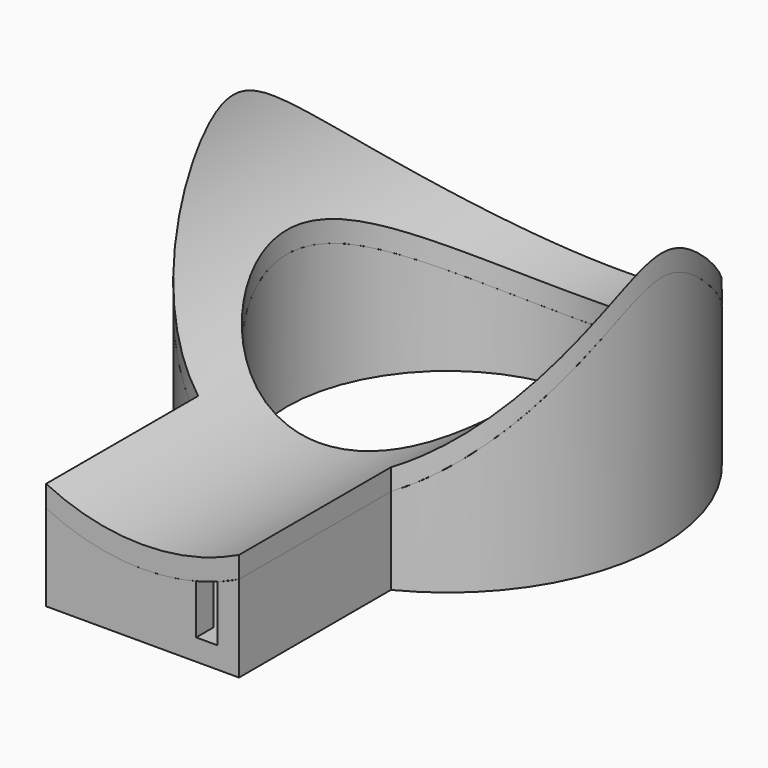
from build123d import *

# Parameters (mm, degrees)
SKETCH_R             = 20
PAD_DEPTH            = 30
SKETCH001_R          = 19
POCKET_DEPTH         = 40
POCKET001_DEPTH      = 20.001
POCKET001_DEPTH_BACK = -20.001
SKETCH014_W          = 14
SKETCH014_H          = 7.569522
POCKET010_DEPTH      = 6
SKETCH005_R          = 16
PAD002_DEPTH         = 30
POCKET003_DEPTH      = 16.001
POCKET003_DEPTH_BACK = -16.001
SKETCH007_R          = 15
POCKET004_DEPTH      = 13.684994
SKETCH003_R          = 19
PAD001_DEPTH         = 30
POCKET002_DEPTH      = 19.001
POCKET002_DEPTH_BACK = -19.001
SKETCH008_R          = 16
POCKET005_DEPTH      = 13.803598
SKETCH009_W          = 18
SKETCH009_H          = 20
PAD003_DEPTH         = 9
SKETCH010_W          = 14
SKETCH010_H          = 17
POCKET006_DEPTH      = 7
POCKET007_DEPTH      = 21
SKETCH012_W          = 14
SKETCH012_H          = 7.424547
POCKET008_DEPTH      = 25
SKETCH013_R          = 19
POCKET009_DEPTH      = 7
SKETCH021_W          = 2
SKETCH021_H          = 8
POCKET015_DEPTH      = 5
PAD004_DEPTH         = 36
POCKET011_DEPTH      = 36
SKETCH017_R          = 15
POCKET012_DEPTH      = 24.001
POCKET013_DEPTH      = 25
SKETCH019_W          = 20
SKETCH019_H          = 5
POCKET014_DEPTH      = 15
PAD005_DEPTH         = 1


with BuildPart() as base_cylinder_external:
    # Sketch → Pad (new body)
    with BuildSketch(Plane.XY):
        Circle(SKETCH_R)
    extrude(amount=PAD_DEPTH)

    # Sketch001 → Pocket (cut)
    with BuildSketch(Plane.XY):
        Circle(SKETCH001_R)
    extrude(amount=POCKET_DEPTH, mode=Mode.SUBTRACT)

    # Sketch002 → Pocket001 (cut, two sides)
    with BuildSketch(Plane.XZ) as pocket001_sk:
        with BuildLine():
            Line((-20, 22), (-20, 32))
            Line((-20, 32), (20, 32))
            Line((20, 32), (20, 22))
            ThreePointArc((-20, 22), (0, 6), (20, 22))
        make_face()
    extrude(amount=-POCKET001_DEPTH, mode=Mode.SUBTRACT)
    extrude(pocket001_sk.sketch, amount=-POCKET001_DEPTH_BACK, mode=Mode.SUBTRACT)

    # Sketch014 → Pocket010 (cut)
    with BuildSketch(Plane.XZ.offset(22)):
        with Locations((0, 5.784761)):
            Rectangle(SKETCH014_W, SKETCH014_H)
    extrude(amount=-POCKET010_DEPTH, mode=Mode.SUBTRACT)


with BuildPart() as base_cylinder_internal:
    # Sketch005 → Pad002 (new body)
    with BuildSketch(Plane.XY):
        Circle(SKETCH005_R)
    extrude(amount=PAD002_DEPTH)

    # Sketch006 → Pocket003 (cut, two sides)
    with BuildSketch(Plane.XZ) as pocket003_sk:
        with BuildLine():
            Line((-20, 22), (-20, 32))
            Line((-20, 32), (20, 32))
            Line((20, 32), (20, 22))
            ThreePointArc((-20, 22), (0, 6), (20, 22))
        make_face()
    extrude(amount=-POCKET003_DEPTH, mode=Mode.SUBTRACT)
    extrude(pocket003_sk.sketch, amount=-POCKET003_DEPTH_BACK, mode=Mode.SUBTRACT)

    # Sketch007 → Pocket004 (cut, through all)
    with BuildSketch(Plane.XY):
        Circle(SKETCH007_R)
    extrude(amount=POCKET004_DEPTH, mode=Mode.SUBTRACT)


with BuildPart() as base_cylinder_intermediate:
    # Sketch003 → Pad001 (new body)
    with BuildSketch(Plane.XY):
        Circle(SKETCH003_R)
    extrude(amount=PAD001_DEPTH)

    # Sketch004 → Pocket002 (cut, two sides)
    with BuildSketch(Plane.XZ) as pocket002_sk:
        with BuildLine():
            Line((-20, 17), (-20, 32))
            Line((-20, 32), (20, 32))
            Line((20, 32), (20, 17))
            ThreePointArc((-20, 17), (0, 1), (20, 17))
        make_face()
    extrude(amount=-POCKET002_DEPTH, mode=Mode.SUBTRACT)
    extrude(pocket002_sk.sketch, amount=-POCKET002_DEPTH_BACK, mode=Mode.SUBTRACT)

    # Sketch008 → Pocket005 (cut, through all)
    with BuildSketch(Plane.XY):
        Circle(SKETCH008_R)
    extrude(amount=POCKET005_DEPTH, mode=Mode.SUBTRACT)


with BuildPart() as base_box:
    # Sketch009 → Pad003 (new body)
    with BuildSketch(Plane.XY):
        with Locations((0, -25.588457)):
            Rectangle(SKETCH009_W, SKETCH009_H)
    extrude(amount=PAD003_DEPTH)

    # Sketch010 → Pocket006 (cut)
    with BuildSketch(Plane.XY.offset(2)):
        with Locations((0, -25.083124)):
            Rectangle(SKETCH010_W, SKETCH010_H)
    extrude(amount=POCKET006_DEPTH, mode=Mode.SUBTRACT)

    # Sketch011 → Pocket007 (cut)
    with BuildSketch(Plane.XZ.offset(15)):
        with BuildLine():
            Line((-20, 22), (-20, 32))
            Line((-20, 32), (20, 32))
            Line((20, 32), (20, 22))
            ThreePointArc((-20, 22), (0, 6), (20, 22))
        make_face()
    extrude(amount=POCKET007_DEPTH, mode=Mode.SUBTRACT)

    # Sketch012 → Pocket008 (cut)
    with BuildSketch(Plane.XZ.offset(33)):
        with Locations((0, 5.712274)):
            Rectangle(SKETCH012_W, SKETCH012_H)
    extrude(amount=-POCKET008_DEPTH, mode=Mode.SUBTRACT)

    # Sketch013 → Pocket009 (cut)
    with BuildSketch(Plane.XY.offset(9)):
        Circle(SKETCH013_R)
    extrude(amount=-POCKET009_DEPTH, mode=Mode.SUBTRACT)

    # Sketch021 → Pocket015 (cut)
    with BuildSketch(Plane.XZ.offset(37)):
        with Locations((6, 6)):
            Rectangle(SKETCH021_W, SKETCH021_H)
    extrude(amount=-POCKET015_DEPTH, mode=Mode.SUBTRACT)


with BuildPart() as top:
    # Sketch015 → Pad004 (new body, symmetric)
    with BuildSketch(Plane.XZ):
        with BuildLine():
            Line((-20, 22), (-20, 32))
            Line((-20, 32), (20, 32))
            Line((20, 32), (20, 22))
            ThreePointArc((-20, 22), (0, 6), (20, 22))
        make_face()
    extrude(amount=PAD004_DEPTH, both=True)

    # Sketch016 → Pocket011 (cut, symmetric)
    with BuildSketch(Plane.XZ):
        with BuildLine():
            Line((-20, 24), (-20, 34))
            Line((-20, 34), (20, 34))
            Line((20, 34), (20, 24))
            ThreePointArc((-20, 24), (0, 8), (20, 24))
        make_face()
    extrude(amount=POCKET011_DEPTH, both=True, mode=Mode.SUBTRACT)

    # Sketch017 → Pocket012 (cut, through all)
    with BuildSketch(Plane.XY):
        Circle(SKETCH017_R)
    extrude(amount=POCKET012_DEPTH, mode=Mode.SUBTRACT)

    # Sketch018 → Pocket013 (cut)
    with BuildSketch(Plane.XY):
        with BuildLine():
            Line((9, -38.955163), (9, -17.860571))
            ThreePointArc((9, -17.860571), (0, 20), (-9, -17.860571))
            Line((-9, -38.955163), (-9, -17.860571))
            Line((-9, -38.955163), (-27, -38.955163))
            Line((-27, -38.955163), (-27, 41.044837))
            Line((-27, 41.044837), (27, 41.044837))
            Line((27, 41.044837), (27, -38.955163))
            Line((27, -38.955163), (9, -38.955163))
        make_face()
    extrude(amount=POCKET013_DEPTH, mode=Mode.SUBTRACT)

    # Sketch019 → Pocket014 (cut)
    with BuildSketch(Plane.XY):
        with Locations((0, -38.1)):
            Rectangle(SKETCH019_W, SKETCH019_H)
    extrude(amount=POCKET014_DEPTH, mode=Mode.SUBTRACT)

    # Sketch020 → Pad005 (join)
    with BuildSketch(Plane.XY.offset(7)):
        Polygon((-6.8, -20.975668), (-6.8, -33.5), (6.8, -33.5), (6.8, -20.975668), (5.8, -20.975668), (5.8, -32.5), (-5.8, -32.5), (-5.8, -20.975668), align=None)
    extrude(amount=-PAD005_DEPTH)


solid = Compound([base_cylinder_external.part, base_cylinder_internal.part, base_cylinder_intermediate.part, base_box.part, top.part])
